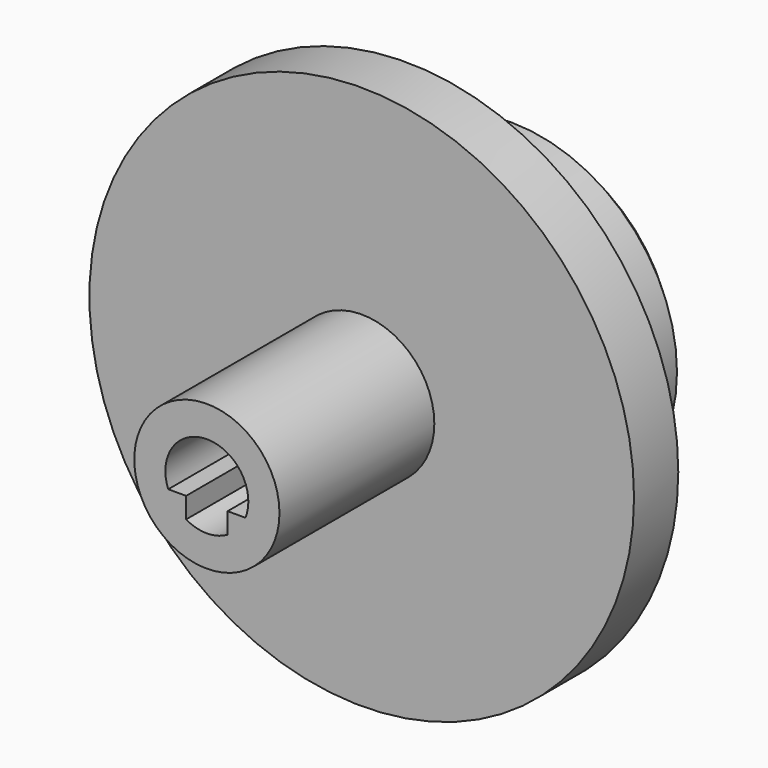
from build123d import *

# Parameters (mm, degrees)
F3_DEPTH = 20


with BuildPart() as f1:
    # F0 (on Top) → F1 (revolve)
    with BuildSketch(Plane.XY):
        Polygon((5.25, -16.505901), (5.25, -2.505901), (19.694209, -2.505901), (19.694209, 1.494099), (12, 3.994099), (12, 10.994099), (10.5, 10.994099), (10.5, 12.494099), (0, 12.494099), (0, -16.505901), align=None)
    revolve(axis=Axis((0, -14.739398, 0), (0, -1, 0)))

    # F2 (on face) → F3 (cut)
    with BuildSketch(Plane.XZ.offset(16.505901)):
        with BuildLine():
            Line((-1.5, -1.098076), (-1.5, -2.598076))
            ThreePointArc((-1.5, -2.598076), (0, -3), (1.5, -2.598076))
            Line((1.5, -2.598076), (1.5, -1.098076))
            Line((1.5, -1.098076), (2.791815, -1.098076))
            ThreePointArc((2.791815, -1.098076), (0, 3), (-2.791815, -1.098076))
            Line((-2.791815, -1.098076), (-1.5, -1.098076))
        make_face()
    extrude(amount=-F3_DEPTH, mode=Mode.SUBTRACT)


solid = f1.part
